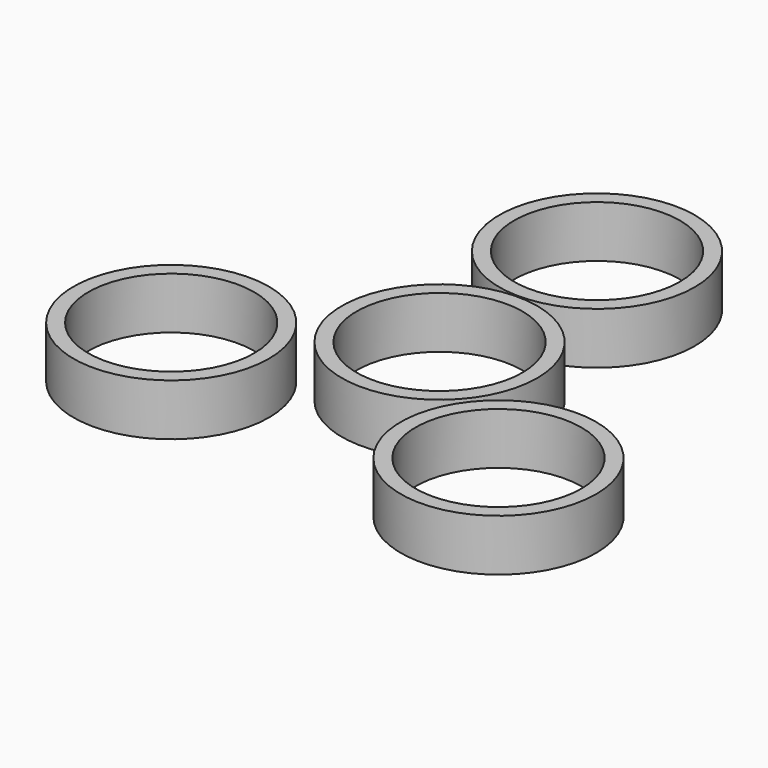
from build123d import *

# Parameters (mm, degrees)
F0_R     = 13.2
F0_R_2   = 11.2
F1_DEPTH = 7


with BuildPart() as f1:
    # F0 (on Top) → F1 (new body)
    with BuildSketch(Plane.XY):
        Circle(F0_R)
        Circle(F0_R_2, mode=Mode.SUBTRACT)
        with Locations((-24.860859, -14.226735)):
            Circle(F0_R)
        with Locations((-24.860859, -14.226735)):
            Circle(F0_R_2, mode=Mode.SUBTRACT)
        with Locations((21.411952, -16.813412)):
            Circle(F0_R)
        with Locations((21.411952, -16.813412)):
            Circle(F0_R_2, mode=Mode.SUBTRACT)
        with Locations((0, 26.585311)):
            Circle(F0_R)
        with Locations((0, 26.585311)):
            Circle(F0_R_2, mode=Mode.SUBTRACT)
    extrude(amount=F1_DEPTH)


solid = f1.part
